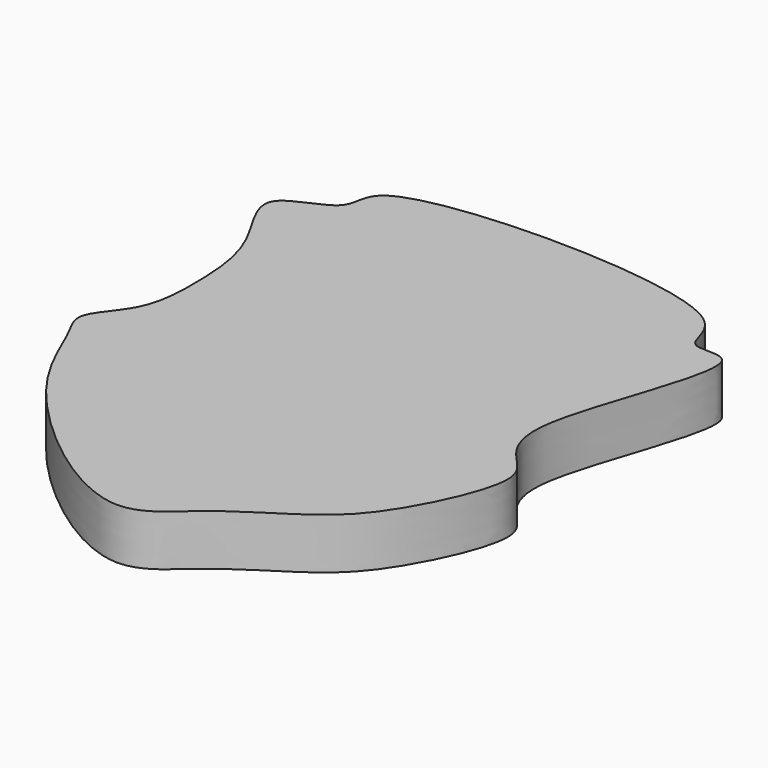
from build123d import *

# Parameters (mm, degrees)
F2_DEPTH = 6.35


with BuildPart() as f2:
    # F1 (on Top) → F2 (new body)
    with BuildSketch(Plane.XY):
        with BuildLine():
            add(Edge.make_bspline(
                [(-32.6136015356, 20.2692002058), (-33.5811125806, 18.4616773544), (-28.2173430408, 12.0754344026), (-27.586984833, 2.8350305203), (-27.8639563265, -5.431814953), (-33.1581004034, -10.0626669272), (-30.1619260978, -14.3302185756), (-26.7992645036, -25.3913838292), (-4.7678584045, -43.4646293313), (2.6659977151, -34.3403195955), (12.3757088116, -29.0298726333), (17.865459766, -23.2490036109), (23.5424318269, -10.6367684728), (19.4577094185, -7.1022758039), (15.0259628274, -0.6265077863), (26.914017635, 24.263644627), (16.9382660674, 20.9950994103), (19.5995860514, 31.9768277247), (-28.8314249157, 32.0075782963), (-24.9040567852, 23.004520205), (-31.744614395, 21.892658793), (-32.6136015356, 20.2692002058)],
                knots=[0, 0, 0, 0, 0.0489707528, 0.1019124452, 0.1495004931, 0.189803162, 0.2228022019, 0.2813549337, 0.3651734377, 0.4155931661, 0.4706630593, 0.5200389545, 0.5790838438, 0.613666682, 0.6596113506, 0.7385007942, 0.7723911652, 0.81269383, 0.9193078683, 0.9560160531, 1, 1, 1, 1], degree=3))
        make_face()
    extrude(amount=F2_DEPTH)


solid = f2.part
